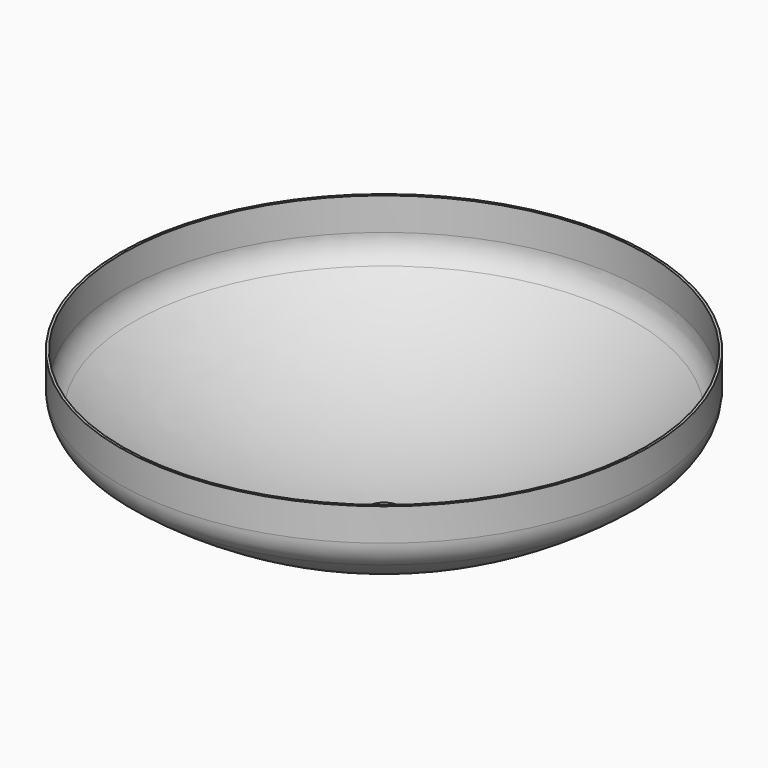
from build123d import *


with BuildPart() as f2:
    # F0 (on Front) → F2 (revolve)
    with BuildSketch(Plane.XZ):
        with BuildLine():
            Line((325, -40), (325, 0))
            Line((325, 0), (322, 0))
            Line((322, 0), (322, -40))
            ThreePointArc((322, -40), (318.28006, -56.169032), (307.868237, -69.086831))
            ThreePointArc((307.868237, -69.086831), (172.355845, -145.082271), (20, -175.522575))
            Line((20, -175.522575), (20, -178.525055))
            ThreePointArc((20, -178.525055), (173.37302, -147.904742), (309.782609, -71.397807))
            ThreePointArc((309.782609, -71.397807), (320.995169, -57.445568), (325, -40))
        make_face()
    revolve(axis=Axis((0, 0, -97.879305), (0, 0, -1)))


solid = f2.part
